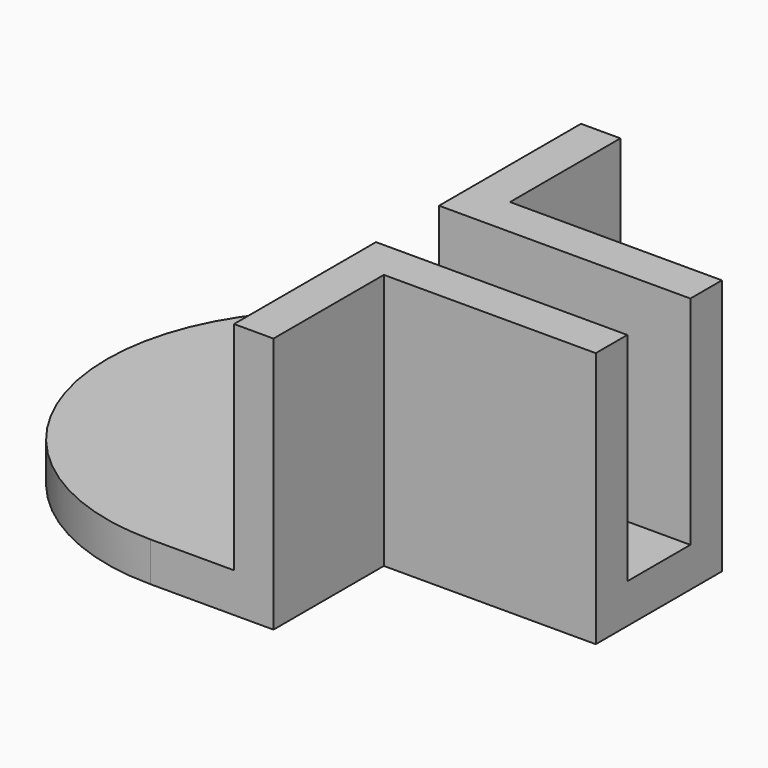
from build123d import *

# Parameters (mm, degrees)
F1_DEPTH = 2
F2_DEPTH = 13


with BuildPart() as f1:
    # F0 (on Top) → F1 (new body)
    with BuildSketch(Plane.XY):
        with BuildLine():
            Line((4.25, 11), (4.25, 10.1458119439))
            ThreePointArc((4.25, 10.1458119439), (5.2784128784, 9.6508215964), (6.25, 9.0519334951))
            Line((6.25, 9.0519334951), (6.25, 11))
            Line((6.25, 11), (4.25, 11))
        make_face()
        with BuildLine():
            ThreePointArc((4.25, 10.1458119439), (2.1674949386, 10.7843389084), (0, 11))
            Line((0, 11), (0, -11))
            ThreePointArc((0, -11), (2.1674949386, -10.7843389084), (4.25, -10.1458119439))
            Line((4.25, -10.1458119439), (4.25, -2))
            Line((4.25, -2), (6.25, -2))
            Line((6.25, -2), (6.25, 2))
            Line((6.25, 2), (4.25, 2))
            Line((4.25, 2), (4.25, 10.1458119439))
        make_face()
        with BuildLine():
            Line((0, -11), (0, 11))
            ThreePointArc((0, 11), (-11, 0), (0, -11))
        make_face()
        with BuildLine():
            ThreePointArc((6.25, -9.0519334951), (5.2784128784, -9.6508215964), (4.25, -10.1458119439))
            Line((4.25, -10.1458119439), (4.25, -11))
            Line((4.25, -11), (6.25, -11))
            Line((6.25, -11), (6.25, -9.0519334951))
        make_face()
        with BuildLine():
            ThreePointArc((10.8166538264, 2), (10.5791710264, 3.0134930553), (10.246950766, 4))
            Line((10.246950766, 4), (6.25, 4))
            Line((6.25, 4), (6.25, 2))
            Line((6.25, 2), (10.8166538264, 2))
        make_face()
        with BuildLine():
            Line((13.753049234, 4), (10.246950766, 4))
            ThreePointArc((10.246950766, 4), (10.5791710264, 3.0134930553), (10.8166538264, 2))
            Line((10.8166538264, 2), (13.1833461736, 2))
            ThreePointArc((13.1833461736, 2), (13.4208289736, 3.0134930553), (13.753049234, 4))
        make_face()
        with BuildLine():
            Line((17, 4), (13.753049234, 4))
            ThreePointArc((13.753049234, 4), (13.4208289736, 3.0134930553), (13.1833461736, 2))
            Line((13.1833461736, 2), (17, 2))
            Line((17, 2), (17, 4))
        make_face()
        with BuildLine():
            Line((17, 2), (13.1833461736, 2))
            ThreePointArc((13.1833461736, 2), (13, 0), (13.1833461736, -2))
            Line((13.1833461736, -2), (17, -2))
            Line((17, -2), (17, 2))
        make_face()
        with BuildLine():
            ThreePointArc((13.1833461736, -2), (13.4208289736, -3.0134930553), (13.753049234, -4))
            Line((13.753049234, -4), (17, -4))
            Line((17, -4), (17, -2))
            Line((17, -2), (13.1833461736, -2))
        make_face()
        with BuildLine():
            Line((10.8166538264, 2), (6.25, 2))
            Line((6.25, 2), (6.25, -2))
            Line((6.25, -2), (10.8166538264, -2))
            ThreePointArc((10.8166538264, -2), (10.9540675571, -1.004193186), (11, 0))
            ThreePointArc((11, 0), (10.9540675571, 1.004193186), (10.8166538264, 2))
        make_face()
        with BuildLine():
            Line((13.1833461736, 2), (10.8166538264, 2))
            ThreePointArc((10.8166538264, 2), (10.9540675571, 1.004193186), (11, 0))
            ThreePointArc((11, 0), (10.9540675571, -1.004193186), (10.8166538264, -2))
            Line((10.8166538264, -2), (13.1833461736, -2))
            ThreePointArc((13.1833461736, -2), (13, 0), (13.1833461736, 2))
        make_face()
        with BuildLine():
            Line((4.25, -2), (4.25, -10.1458119439))
            ThreePointArc((4.25, -10.1458119439), (5.2784128784, -9.6508215964), (6.25, -9.0519334951))
            Line((6.25, -9.0519334951), (6.25, -4))
            Line((6.25, -4), (6.25, -2))
            Line((6.25, -2), (4.25, -2))
        make_face()
        with BuildLine():
            Line((6.25, -4), (10.246950766, -4))
            ThreePointArc((10.246950766, -4), (10.5791710264, -3.0134930553), (10.8166538264, -2))
            Line((10.8166538264, -2), (6.25, -2))
            Line((6.25, -2), (6.25, -4))
        make_face()
        with BuildLine():
            ThreePointArc((10.8166538264, -2), (10.5791710264, -3.0134930553), (10.246950766, -4))
            Line((10.246950766, -4), (13.753049234, -4))
            ThreePointArc((13.753049234, -4), (13.4208289736, -3.0134930553), (13.1833461736, -2))
            Line((13.1833461736, -2), (10.8166538264, -2))
        make_face()
        with BuildLine():
            ThreePointArc((6.25, 9.0519334951), (5.2784128784, 9.6508215964), (4.25, 10.1458119439))
            Line((4.25, 10.1458119439), (4.25, 2))
            Line((4.25, 2), (6.25, 2))
            Line((6.25, 2), (6.25, 4))
            Line((6.25, 4), (6.25, 9.0519334951))
        make_face()
        with BuildLine():
            ThreePointArc((4.25, -10.1458119439), (2.1674949386, -10.7843389084), (0, -11))
            Line((0, -11), (4.25, -11))
            Line((4.25, -11), (4.25, -10.1458119439))
        make_face()
        with BuildLine():
            Line((4.25, 11), (0, 11))
            ThreePointArc((0, 11), (2.1674949386, 10.7843389084), (4.25, 10.1458119439))
            Line((4.25, 10.1458119439), (4.25, 11))
        make_face()
    extrude(amount=F1_DEPTH)

    # F0 (on Top) → F2 (join)
    with BuildSketch(Plane.XY):
        with BuildLine():
            ThreePointArc((6.25, 9.0519334951), (5.2784128784, 9.6508215964), (4.25, 10.1458119439))
            Line((4.25, 10.1458119439), (4.25, 2))
            Line((4.25, 2), (6.25, 2))
            Line((6.25, 2), (6.25, 4))
            Line((6.25, 4), (6.25, 9.0519334951))
        make_face()
        with BuildLine():
            Line((4.25, 11), (4.25, 10.1458119439))
            ThreePointArc((4.25, 10.1458119439), (5.2784128784, 9.6508215964), (6.25, 9.0519334951))
            Line((6.25, 9.0519334951), (6.25, 11))
            Line((6.25, 11), (4.25, 11))
        make_face()
        with BuildLine():
            ThreePointArc((10.8166538264, 2), (10.5791710264, 3.0134930553), (10.246950766, 4))
            Line((10.246950766, 4), (6.25, 4))
            Line((6.25, 4), (6.25, 2))
            Line((6.25, 2), (10.8166538264, 2))
        make_face()
        with BuildLine():
            Line((13.753049234, 4), (10.246950766, 4))
            ThreePointArc((10.246950766, 4), (10.5791710264, 3.0134930553), (10.8166538264, 2))
            Line((10.8166538264, 2), (13.1833461736, 2))
            ThreePointArc((13.1833461736, 2), (13.4208289736, 3.0134930553), (13.753049234, 4))
        make_face()
        with BuildLine():
            Line((17, 4), (13.753049234, 4))
            ThreePointArc((13.753049234, 4), (13.4208289736, 3.0134930553), (13.1833461736, 2))
            Line((13.1833461736, 2), (17, 2))
            Line((17, 2), (17, 4))
        make_face()
        with BuildLine():
            Line((4.25, -2), (4.25, -10.1458119439))
            ThreePointArc((4.25, -10.1458119439), (5.2784128784, -9.6508215964), (6.25, -9.0519334951))
            Line((6.25, -9.0519334951), (6.25, -4))
            Line((6.25, -4), (6.25, -2))
            Line((6.25, -2), (4.25, -2))
        make_face()
        with BuildLine():
            Line((6.25, -4), (10.246950766, -4))
            ThreePointArc((10.246950766, -4), (10.5791710264, -3.0134930553), (10.8166538264, -2))
            Line((10.8166538264, -2), (6.25, -2))
            Line((6.25, -2), (6.25, -4))
        make_face()
        with BuildLine():
            ThreePointArc((10.8166538264, -2), (10.5791710264, -3.0134930553), (10.246950766, -4))
            Line((10.246950766, -4), (13.753049234, -4))
            ThreePointArc((13.753049234, -4), (13.4208289736, -3.0134930553), (13.1833461736, -2))
            Line((13.1833461736, -2), (10.8166538264, -2))
        make_face()
        with BuildLine():
            ThreePointArc((13.1833461736, -2), (13.4208289736, -3.0134930553), (13.753049234, -4))
            Line((13.753049234, -4), (17, -4))
            Line((17, -4), (17, -2))
            Line((17, -2), (13.1833461736, -2))
        make_face()
        with BuildLine():
            ThreePointArc((6.25, -9.0519334951), (5.2784128784, -9.6508215964), (4.25, -10.1458119439))
            Line((4.25, -10.1458119439), (4.25, -11))
            Line((4.25, -11), (6.25, -11))
            Line((6.25, -11), (6.25, -9.0519334951))
        make_face()
    extrude(amount=F2_DEPTH)


solid = f1.part
